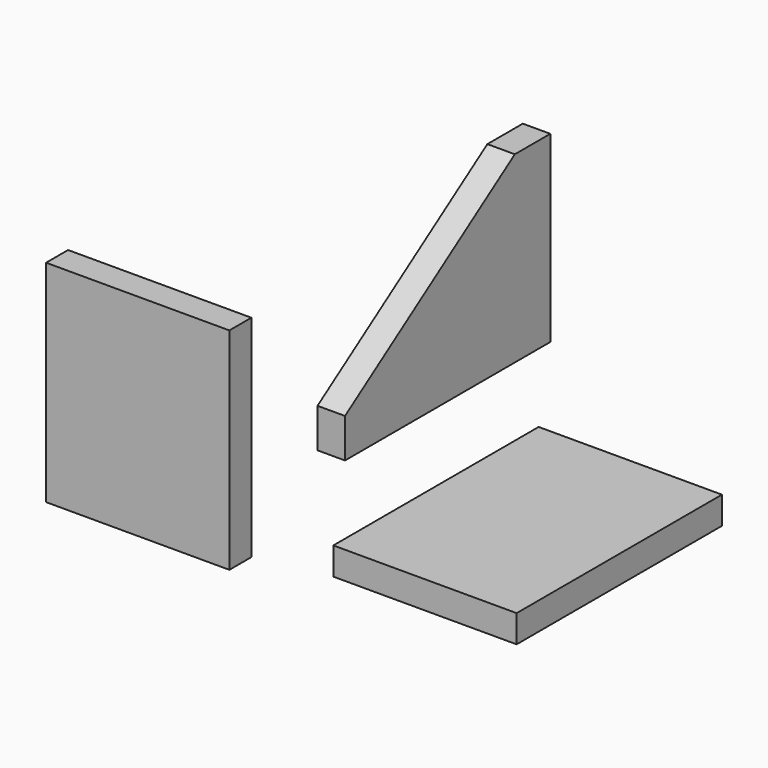
from build123d import *

# Parameters (mm, degrees)
F0_W     = 127
F0_H     = 177.8
F1_DEPTH = 19.05
F2_W     = 177.8
F2_H     = 127
F3_DEPTH = 19.05
F5_DEPTH = 25.4
F7_DEPTH = 25.4
F8_W     = 127
F8_H     = 146.05
F9_DEPTH = 19.05


with BuildPart() as f1:
    # F0 (on Top) → F1 (new body)
    with BuildSketch(Plane.XY):
        with Locations((63.5, 88.9)):
            Rectangle(F0_W, F0_H)
    extrude(amount=-F1_DEPTH)


with BuildPart() as f3:
    # F2 (on Right) → F3 (new body)
    with BuildSketch(Plane.YZ):
        with Locations((75.199423, 127.068141)):
            Rectangle(F2_W, F2_H)
    extrude(amount=F3_DEPTH)

    # F4 (on face) → F5 (cut)
    with BuildSketch(Plane.YZ.offset(19.05)):
        Polygon((-13.700577, 124.175191), (86.697571, 190.568141), (-13.700577, 190.568141), align=None)
    extrude(amount=-F5_DEPTH, mode=Mode.SUBTRACT)

    # F6 (on face) → F7 (cut)
    with BuildSketch(Plane.YZ.offset(19.05)):
        Polygon((-13.700577, 90.734757), (133.379653, 190.568141), (86.697571, 190.568141), (-13.700577, 124.175191), align=None)
    extrude(amount=-F7_DEPTH, mode=Mode.SUBTRACT)


with BuildPart() as f9:
    # F8 (on Front) → F9 (new body)
    with BuildSketch(Plane.XZ):
        with Locations((-120.29523, 47.399963)):
            Rectangle(F8_W, F8_H)
    extrude(amount=F9_DEPTH)


solid = Compound([f1.part, f3.part, f9.part])
